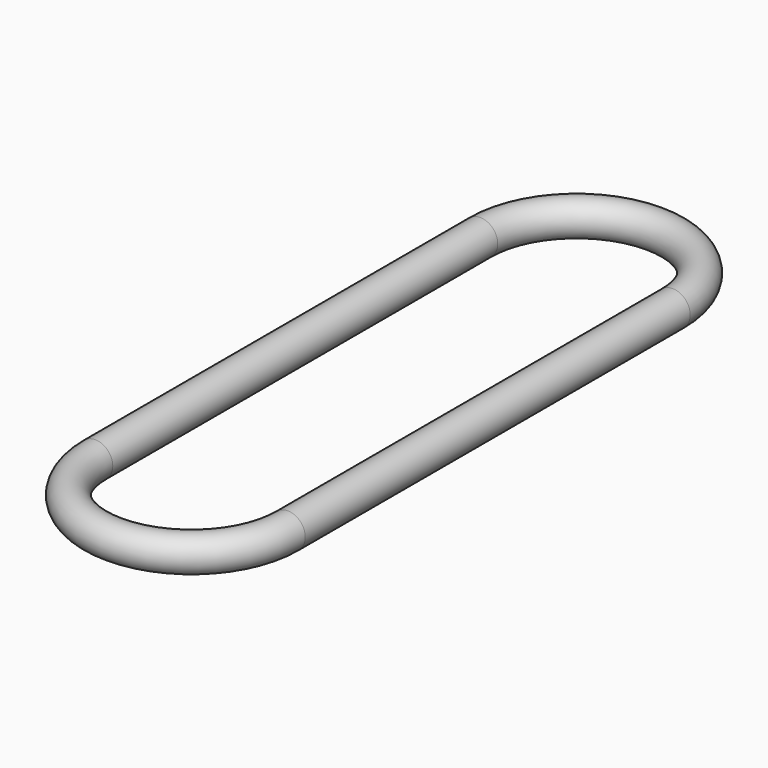
from build123d import *

# Parameters (mm, degrees)
F1_R = 3.175


with BuildPart() as f2:
    # F2: sweep along a path in F0
    with BuildLine(Plane.XY) as f2_path:
        Line((-17.4625, 0), (-17.4625, -87.3125))
        ThreePointArc((-17.4625, -87.3125), (0, -104.775), (17.4625, -87.3125))
        Line((17.4625, -87.3125), (17.4625, 0))
        ThreePointArc((17.4625, 0), (0, 17.4625), (-17.4625, 0))
    # F1 (on Front) → F2 (sweep)
    with BuildSketch(Plane.XZ):
        with Locations((-17.4625, 0)):
            Circle(F1_R)
    sweep(path=f2_path.line)


solid = f2.part
